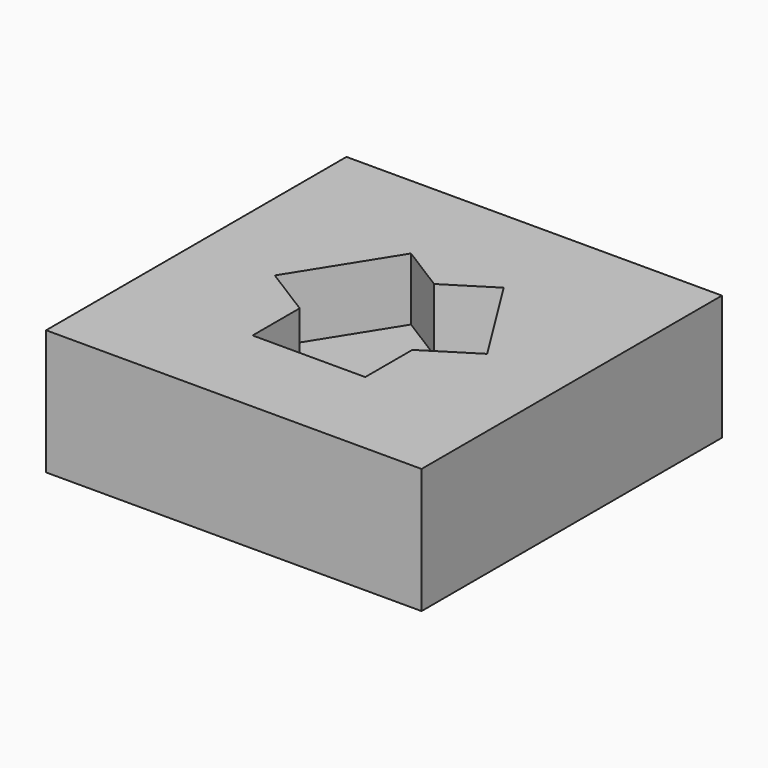
from build123d import *

# Parameters (mm, degrees)
F0_W     = 15
F0_H     = 15
F1_DEPTH = 5
F3_DEPTH = 2.5


with BuildPart() as f1:
    # F0 (on Top) → F1 (new body)
    with BuildSketch(Plane.XY):
        Rectangle(F0_W, F0_H)
    extrude(amount=F1_DEPTH)

    # F2 (on face) → F3 (cut)
    with BuildSketch(Plane.XY.offset(5)):
        Polygon((0, 2.502102), (-1.851563, 3.663132), (-4.242188, -0.149336), (-2.25, -1.398546), (-2.25, -3.75), (2.25, -3.75), (2.25, -1.398546), (4.242187, -0.149336), (1.851562, 3.663132), align=None)
    extrude(amount=-F3_DEPTH, mode=Mode.SUBTRACT)


solid = f1.part
